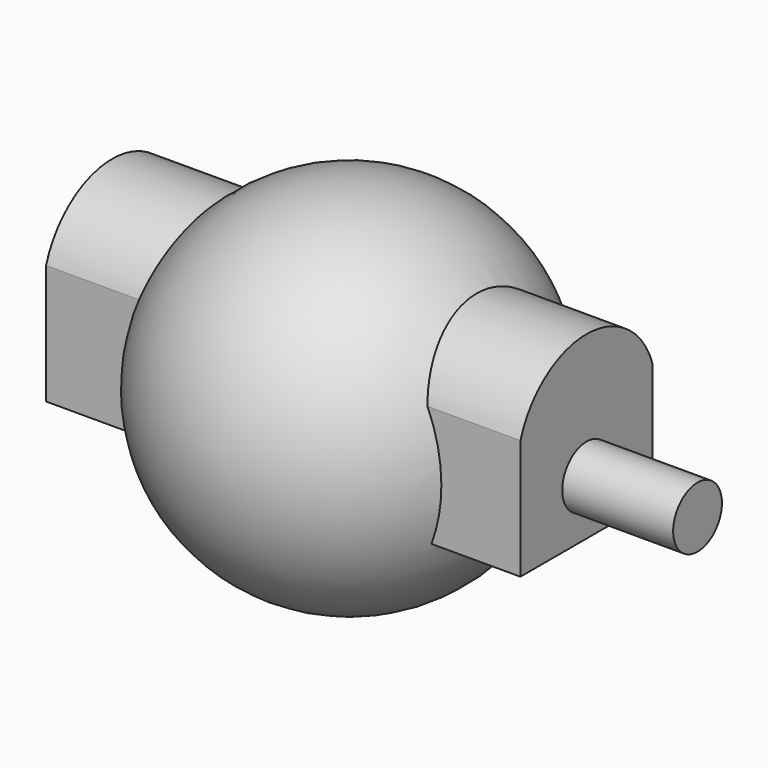
from build123d import *

# Parameters (mm, degrees)
PAD014_DEPTH = 5.45
SKETCH029_R  = 0.7
PAD015_DEPTH = 8


with BuildPart() as part:
    # Sketch026 → Revolution001 (revolve)
    with BuildSketch(Plane.XY):
        with BuildLine():
            ThreePointArc((0, -4.1), (4.1, 0), (0, 4.1))
            Line((0, 4.1), (0, -4.1))
        make_face()
    revolve(axis=Axis((0, 0, 0), (0, 1, 0)))

    # Sketch027 → Pad014 (new body, symmetric)
    with BuildSketch(Plane.YZ):
        with BuildLine():
            Line((-1.9, 1.490454), (-1.9, -1.263217))
            Line((-1.9, -1.263217), (1.9, -1.263217))
            Line((1.9, -1.263217), (1.9, 1.490454))
            ThreePointArc((1.9, 1.490454), (0, 2.874217), (-1.9, 1.490454))
        make_face()
    extrude(amount=PAD014_DEPTH, both=True)

    # Sketch029 → Pad015 (join)
    with BuildSketch(Plane.YZ):
        Circle(SKETCH029_R)
    extrude(amount=PAD015_DEPTH)


solid = part.part
